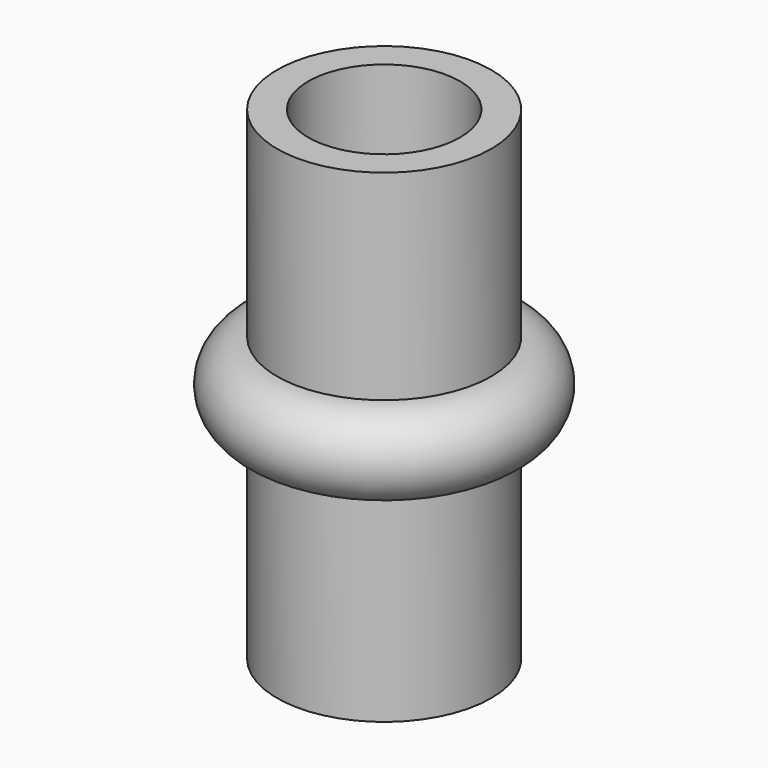
from build123d import *

# Parameters (mm, degrees)
F0_R     = 7.75
F0_R_2   = 5.5
F1_DEPTH = 35


with BuildPart() as f1:
    # F0 (on Top) → F1 (new body)
    with BuildSketch(Plane.XY):
        Circle(F0_R)
        Circle(F0_R_2, mode=Mode.SUBTRACT)
    extrude(amount=F1_DEPTH)

    # F2 (on Front) → F3 (revolve)
    with BuildSketch(Plane.XZ):
        with BuildLine():
            ThreePointArc((7.75, 14.5), (10.75, 17.5), (7.75, 20.5))
            Line((7.75, 20.5), (7.75, 14.5))
        make_face()
    revolve(axis=Axis((0, 0, 7.5), (0, 0, 1)))


solid = f1.part
